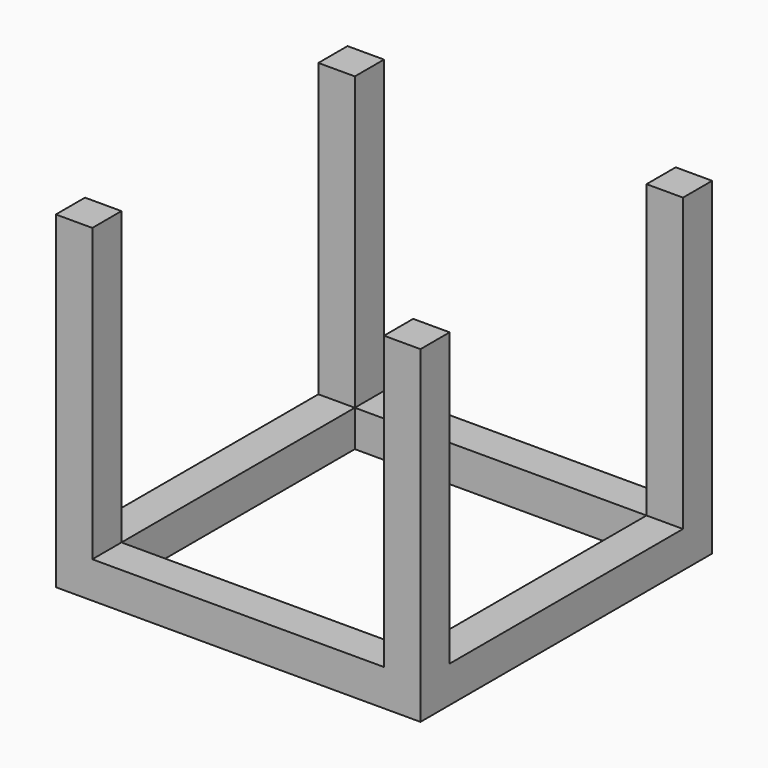
from build123d import *

# Parameters (mm, degrees)
F0_W     = 300
F0_H     = 300
F0_W_2   = 240
F0_H_2   = 240
F1_DEPTH = 30
F2_W     = 30
F2_H     = 30
F3_DEPTH = 240


with BuildPart() as f1:
    # F0 (on Top) → F1 (new body)
    with BuildSketch(Plane.XY):
        Rectangle(F0_W, F0_H)
        Rectangle(F0_W_2, F0_H_2, mode=Mode.SUBTRACT)
    extrude(amount=F1_DEPTH)

    # F2 (on face) → F3 (join)
    with BuildSketch(Plane.XY.offset(30)):
        with Locations((-135, 135)):
            Rectangle(F2_W, F2_H)
        with Locations((135, 135)):
            Rectangle(F2_W, F2_H)
        with Locations((135, -135)):
            Rectangle(F2_W, F2_H)
        with Locations((-135, -135)):
            Rectangle(F2_W, F2_H)
    extrude(amount=F3_DEPTH)


solid = f1.part
